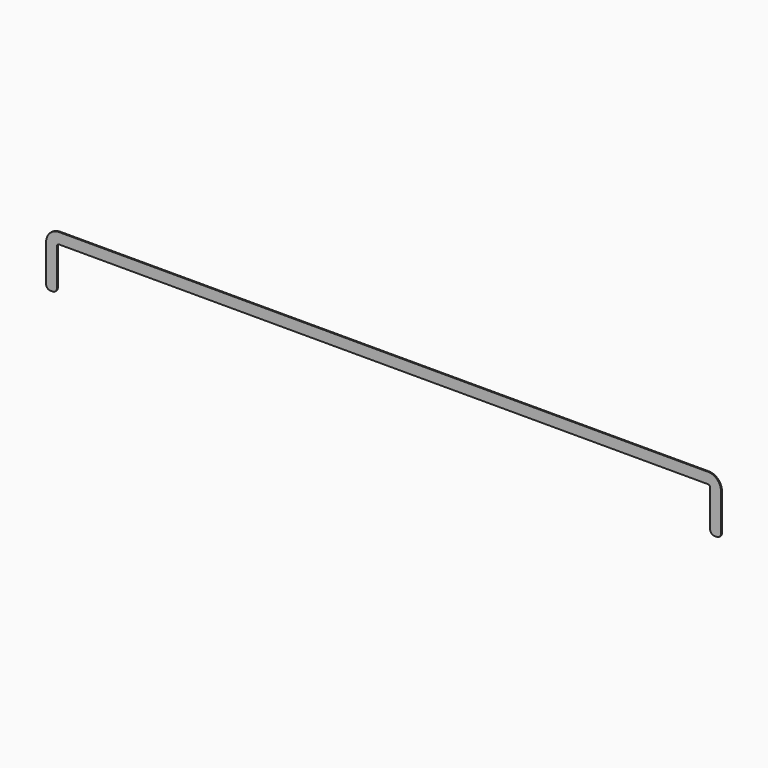
from build123d import *

# Parameters (mm, degrees)
F1_DEPTH = 0.5


with BuildPart() as f1:
    # F0 (on Front) → F1 (new body)
    with BuildSketch(Plane.XZ):
        with BuildLine():
            ThreePointArc((-150.898975, -4.798244), (-149.484761, -4.212457), (-148.898975, -2.798244))
            Line((-148.898975, -2.798244), (-148.898975, 14.201756))
            ThreePointArc((-148.898975, 14.201756), (-148.606081, 14.908863), (-147.898975, 15.201756))
            Line((-147.898975, 15.201756), (150.101025, 15.201756))
            ThreePointArc((150.101025, 15.201756), (150.808132, 14.908863), (151.101025, 14.201756))
            Line((151.101025, 14.201756), (151.101025, -2.798244))
            ThreePointArc((151.101025, -2.798244), (151.686812, -4.212457), (153.101025, -4.798244))
            Line((153.101025, -4.798244), (154.101025, -4.798244))
            ThreePointArc((154.101025, -4.798244), (155.515239, -4.212457), (156.101025, -2.798244))
            Line((156.101025, -2.798244), (156.101025, 14.201756))
            ThreePointArc((156.101025, 14.201756), (154.343666, 18.444397), (150.101025, 20.201756))
            Line((150.101025, 20.201756), (-147.898975, 20.201756))
            ThreePointArc((-147.898975, 20.201756), (-152.141615, 18.444397), (-153.898975, 14.201756))
            Line((-153.898975, 14.201756), (-153.898975, -2.798244))
            ThreePointArc((-153.898975, -2.798244), (-153.313188, -4.212457), (-151.898975, -4.798244))
            Line((-151.898975, -4.798244), (-150.898975, -4.798244))
        make_face()
    extrude(amount=F1_DEPTH)


solid = f1.part
